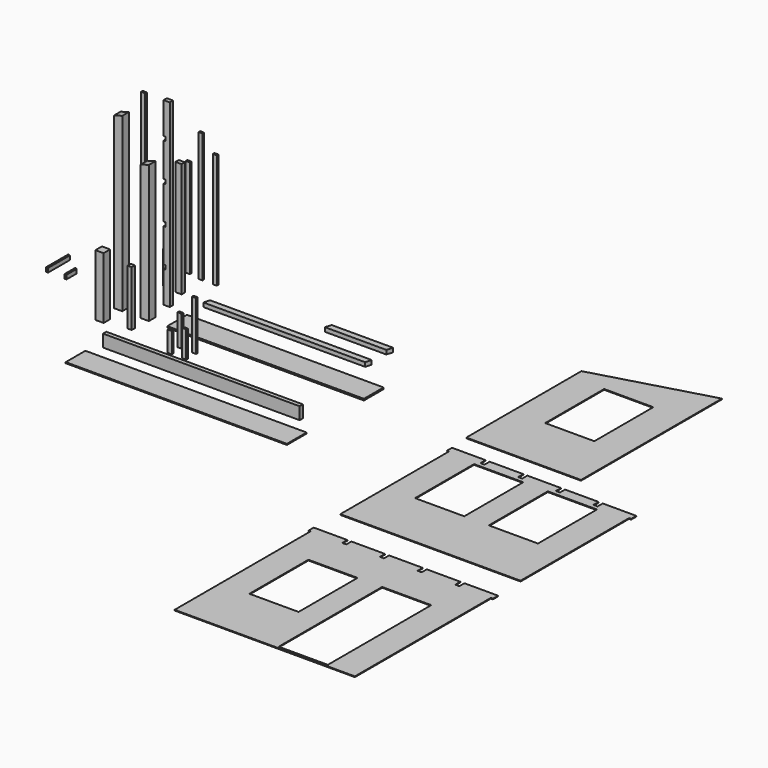
from build123d import *

# Parameters (mm, degrees)
F1_DEPTH  = 152.4
F2_W      = 101.6
F2_H      = 101.6
F3_DEPTH  = 2133.6
F5_DEPTH  = 101.6
F6_W      = 101.6
F6_H      = 101.6
F7_DEPTH  = 1704.975
F9_DEPTH  = 101.6
F10_W     = 2438.4
F10_H     = 304.8
F11_DEPTH = 19.05
F13_DEPTH = 50.8
F14_W     = 76.2
F14_H     = 50.8
F15_DEPTH = 2235.2
F16_W     = 76.2
F16_H     = 50.8
F17_DEPTH = 1422.4
F18_W     = 21.59
F18_H     = 50.8
F19_DEPTH = 50.8
F20_W     = 50.8
F20_H     = 25.4
F21_DEPTH = 2235.2
F22_W     = 50.8
F22_H     = 25.4
F23_DEPTH = 1628.775
F24_W     = 50.8
F24_H     = 25.4
F25_DEPTH = 1219.2
F26_W     = 50.8
F26_H     = 25.4
F27_DEPTH = 1603.375
F28_W     = 50.8
F28_H     = 25.4
F29_DEPTH = 1422.4
F31_DEPTH = 50.8
F32_W     = 2438.4
F32_H     = 50.8
F33_DEPTH = 152.4
F36_W     = 50.8
F36_H     = 25.4
F37_DEPTH = 381
F38_W     = 50.8
F38_H     = 25.4
F39_DEPTH = 609.6
F40_W     = 50.8
F40_H     = 25.4
F41_DEPTH = 254
F42_W     = 50.8
F42_H     = 25.4
F43_DEPTH = 330.2
F44_W     = 2743.2
F44_H     = 304.8
F45_DEPTH = 12.7
F47_DEPTH = 8.9916
F48_W     = 609.6
F48_H     = 914.4
F49_DEPTH = 8.9916
F50_W     = 50.8
F50_H     = 25.4
F51_DEPTH = 403.225
F53_DEPTH = 50.8
F54_DEPTH = 50.8
F56_DEPTH = 8.9916
F57_W     = 609.6
F57_H     = 914.4
F58_DEPTH = 8.9916
F60_DEPTH = 8.9916
F61_W     = 609.6
F61_H     = 914.4
F61_H_2   = 1603.375
F62_DEPTH = 8.9916
F63_W     = 50.799991
F63_H     = 50.8
F64_DEPTH = 685.8
F65_W     = 101.6
F65_H     = 101.6
F66_DEPTH = 762


with BuildPart() as f1:
    # F0 (on Front) → F1 (new body)
    with BuildSketch(Plane.XZ):
        Polygon((-304.8, 152.4), (0, 0), (1828.8, 0), (2133.6, 152.4), (2133.6, 203.2), (-304.8, 203.2), align=None)
    extrude(amount=F1_DEPTH)


with BuildPart() as f3:
    # F2 (on Top) → F3 (new body)
    with BuildSketch(Plane.XY):
        with Locations((-685.8, 304.8)):
            Rectangle(F2_W, F2_H)
    extrude(amount=F3_DEPTH)

    # F4 (on face) → F5 (cut, through all)
    with BuildSketch(Plane.XZ.offset(-254)):
        Polygon((-635, 2133.6), (-736.6, 2133.6), (-736.6, 2105.025), align=None)
    extrude(amount=-F5_DEPTH, mode=Mode.SUBTRACT)


with BuildPart() as f7:
    # F6 (on Top) → F7 (new body)
    with BuildSketch(Plane.XY):
        with Locations((-355.6, 304.8)):
            Rectangle(F6_W, F6_H)
    extrude(amount=F7_DEPTH)

    # F8 (on face) → F9 (cut, through all)
    with BuildSketch(Plane.XZ.offset(-254)):
        Polygon((-304.8, 1704.975), (-406.4, 1704.975), (-406.4, 1676.4), align=None)
    extrude(amount=-F9_DEPTH, mode=Mode.SUBTRACT)


with BuildPart() as f11:
    # F10 (on Top) → F11 (new body)
    with BuildSketch(Plane.XY):
        with Locations((1143, 406.4)):
            Rectangle(F10_W, F10_H)
    extrude(amount=F11_DEPTH)


with BuildPart() as f13:
    # F12 (on Top) → F13 (new body)
    with BuildSketch(Plane.XY):
        Polygon((-54.350002, 889), (-76.2, 812.8), (1929.13, 812.8), (1950.979998, 889), align=None)
    extrude(amount=F13_DEPTH)


with BuildPart() as f15:
    # F14 (on Top) → F15 (new body)
    with BuildSketch(Plane.XY):
        with Locations((-368.3, 635)):
            Rectangle(F14_W, F14_H)
    extrude(amount=F15_DEPTH)

    # F18 (on face) → F19 (cut, through all)
    with BuildSketch(Plane(origin=(0, 660.4, 0), x_dir=(-1, 0, 0), z_dir=(0, 1, 0))):
        with Locations((395.605, 1818.64)):
            Rectangle(F18_W, F18_H)
        with Locations((395.605, 1351.28)):
            Rectangle(F18_W, F18_H)
        with Locations((395.605, 883.92)):
            Rectangle(F18_W, F18_H)
        with Locations((395.605, 416.56)):
            Rectangle(F18_W, F18_H)
    extrude(amount=-F19_DEPTH, mode=Mode.SUBTRACT)


with BuildPart() as f17:
    # F16 (on Top) → F17 (new body)
    with BuildSketch(Plane.XY):
        with Locations((-444.5, 914.4)):
            Rectangle(F16_W, F16_H)
    extrude(amount=F17_DEPTH)


with BuildPart() as f21:
    # F20 (on Top) → F21 (new body)
    with BuildSketch(Plane.XY):
        with Locations((-660.4, 622.3)):
            Rectangle(F20_W, F20_H)
    extrude(amount=F21_DEPTH)


with BuildPart() as f23:
    # F22 (on Top) → F23 (new body)
    with BuildSketch(Plane.XY):
        with Locations((-635, 876.3)):
            Rectangle(F22_W, F22_H)
    extrude(amount=F23_DEPTH)


with BuildPart() as f25:
    # F24 (on Top) → F25 (new body)
    with BuildSketch(Plane.XY):
        with Locations((-635, 1282.7)):
            Rectangle(F24_W, F24_H)
    extrude(amount=F25_DEPTH)


with BuildPart() as f27:
    # F26 (on Top) → F27 (new body)
    with BuildSketch(Plane.XY):
        with Locations((-457.2, 1257.3)):
            Rectangle(F26_W, F26_H)
    extrude(amount=F27_DEPTH)


with BuildPart() as f29:
    # F28 (on Top) → F29 (new body)
    with BuildSketch(Plane.XY):
        with Locations((-279.4, 1257.3)):
            Rectangle(F28_W, F28_H)
    extrude(amount=F29_DEPTH)


with BuildPart() as f31:
    # F30 (on Top) → F31 (new body)
    with BuildSketch(Plane.XY):
        Polygon((1929.13, 1143), (1950.979998, 1219.2), (1188.979998, 1219.2), (1167.13, 1143), align=None)
    extrude(amount=F31_DEPTH)


with BuildPart() as f33:
    # F32 (on Top) → F33 (new body)
    with BuildSketch(Plane.XY):
        with Locations((914.4, -431.8)):
            Rectangle(F32_W, F32_H)
    extrude(amount=F33_DEPTH)


with BuildPart() as f37:
    # F36 (on Top) → F37 (new body)
    with BuildSketch(Plane.XY):
        with Locations((279.4, 12.7)):
            Rectangle(F36_W, F36_H)
    extrude(amount=F37_DEPTH)


with BuildPart() as f39:
    # F38 (on Top) → F39 (new body)
    with BuildSketch(Plane.XY):
        with Locations((457.2, 12.7)):
            Rectangle(F38_W, F38_H)
    extrude(amount=F39_DEPTH)


with BuildPart() as f41:
    # F40 (on Top) → F41 (new body)
    with BuildSketch(Plane.XY):
        with Locations((279.4, -139.7)):
            Rectangle(F40_W, F40_H)
    extrude(amount=F41_DEPTH)


with BuildPart() as f43:
    # F42 (on Top) → F43 (new body)
    with BuildSketch(Plane.XY):
        with Locations((457.2, -139.7)):
            Rectangle(F42_W, F42_H)
    extrude(amount=F43_DEPTH)


with BuildPart() as f45:
    # F44 (on Top) → F45 (new body)
    with BuildSketch(Plane.XY):
        with Locations((990.6, -787.4)):
            Rectangle(F44_W, F44_H)
    extrude(amount=F45_DEPTH)


with BuildPart() as f47:
    # F46 (on Top) → F47 (new body)
    with BuildSketch(Plane.XY):
        Polygon((3632.2, 2038.11886), (3632.2, 254), (5054.6, 254), (5054.6, 2438.29586), align=None)
    extrude(amount=F47_DEPTH)

    # F48 (on face) → F49 (cut, through all)
    with BuildSketch(Plane.XY.offset(8.9916)):
        with Locations((4343.4, 1425.575)):
            Rectangle(F48_W, F48_H)
    extrude(amount=-F49_DEPTH, mode=Mode.SUBTRACT)


with BuildPart() as f51:
    # F50 (on Top) → F51 (new body)
    with BuildSketch(Plane.XY):
        with Locations((-635, 927.1)):
            Rectangle(F50_W, F50_H)
    extrude(amount=F51_DEPTH)


with BuildPart() as f53:
    # F52 (on Top) → F53 (new body)
    with BuildSketch(Plane.XY):
        Polygon((-1701.8, 774.969164), (-1727.2, 782.112914), (-1727.2, 438.419164), (-1701.8, 438.419164), align=None)
    extrude(amount=F53_DEPTH)

    # F52 (on Top) → F54 (join)
    with BuildSketch(Plane.XY):
        Polygon((-1701.8, 774.969164), (-1727.2, 782.112914), (-1727.2, 438.419164), (-1701.8, 438.419164), align=None)
        Polygon((-1498.6, 603.519164), (-1498.6, 438.419164), (-1473.2, 438.419164), (-1473.2, 596.375414), align=None)
    extrude(amount=F54_DEPTH)


with BuildPart() as f56:
    # F55 (on Top) → F56 (new body)
    with BuildSketch(Plane.XY):
        Polygon((4074.16, 0), (3657.6, 0), (3657.6, -79.27086), (3683, -79.27086), (3683, -1762.65586), (5918.2, -1762.65586), (5918.2, -79.27086), (5943.6, -79.27086), (5943.6, 0), (5527.04, 0), (5527.04, -79.27086), (5476.24, -79.27086), (5476.24, 0), (5059.68, 0), (5059.68, -79.27086), (5008.88, -79.27086), (5008.88, 0), (4592.32, 0), (4592.32, -79.27086), (4541.52, -79.27086), (4541.52, 0), (4124.96, 0), (4124.96, -79.27086), (4074.16, -79.27086), align=None)
    extrude(amount=F56_DEPTH)

    # F57 (on face) → F58 (cut, through all)
    with BuildSketch(Plane.XY.offset(8.9916)):
        with Locations((4343.4, -591.08086)):
            Rectangle(F57_W, F57_H)
        with Locations((5257.8, -591.08086)):
            Rectangle(F57_W, F57_H)
    extrude(amount=-F58_DEPTH, mode=Mode.SUBTRACT)


with BuildPart() as f60:
    # F59 (on Top) → F60 (new body)
    with BuildSketch(Plane.XY):
        Polygon((4074.16, -2143.65586), (3657.6, -2143.65586), (3657.6, -2222.92672), (3683, -2222.92672), (3683, -4331.12672), (5918.2, -4331.12672), (5918.2, -2222.92672), (5943.6, -2222.92672), (5943.6, -2143.65586), (5527.04, -2143.65586), (5527.04, -2222.92672), (5476.24, -2222.92672), (5476.24, -2143.65586), (5059.68, -2143.65586), (5059.68, -2222.92672), (5008.88, -2222.92672), (5008.88, -2143.65586), (4592.32, -2143.65586), (4592.32, -2222.92672), (4541.52, -2222.92672), (4541.52, -2143.65586), (4124.96, -2143.65586), (4124.96, -2222.92672), (4074.16, -2222.92672), align=None)
    extrude(amount=F60_DEPTH)

    # F61 (on face) → F62 (cut, through all)
    with BuildSketch(Plane.XY.offset(8.9916)):
        with Locations((4343.4, -3159.55172)):
            Rectangle(F61_W, F61_H)
        with Locations((5257.8, -3504.03922)):
            Rectangle(F61_W, F61_H_2)
    extrude(amount=-F62_DEPTH, mode=Mode.SUBTRACT)


with BuildPart() as f64:
    # F63 (on Top) → F64 (new body)
    with BuildSketch(Plane.XY):
        with Locations((-342.866048, 28.302594)):
            Rectangle(F63_W, F63_H)
    extrude(amount=F64_DEPTH)


with BuildPart() as f66:
    # F65 (on Top) → F66 (new body)
    with BuildSketch(Plane.XY):
        with Locations((-673.066044, 0)):
            Rectangle(F65_W, F65_H)
    extrude(amount=F66_DEPTH)


solid = Compound([f3.part, f7.part, f11.part, f13.part, f15.part, f17.part, f21.part, f25.part, f27.part, f29.part, f31.part, f33.part, f37.part, f39.part, f41.part, f43.part, f45.part, f47.part, f51.part, f53.part, f56.part, f60.part, f64.part, f66.part])
